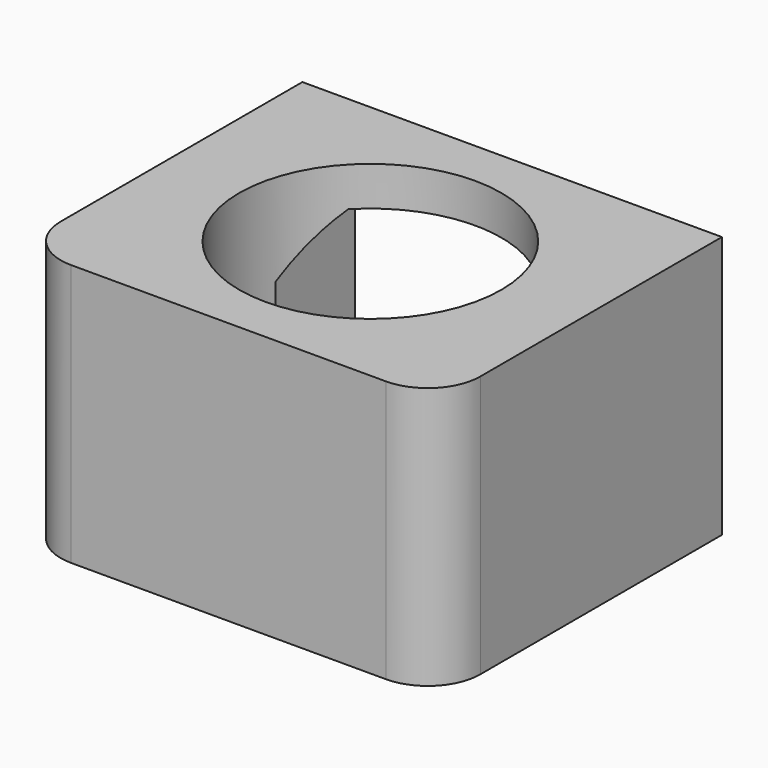
from build123d import *

# Parameters (mm, degrees)
F0_W     = 80
F0_H     = 50
F1_DEPTH = 33.8
F2_R     = 25
F3_DEPTH = 104.1
F4_R     = 10
F5_W     = 60
F5_H     = 42.5
F5_H_2   = 7.5
F6_DEPTH = 26.5
F7_SIZE  = 10


with BuildPart() as f1:
    # F0 (on Front) → F1 (new body, symmetric)
    with BuildSketch(Plane.XZ):
        Rectangle(F0_W, F0_H)
    extrude(amount=F1_DEPTH, both=True)

    # F2 (on face) → F3 (cut)
    with BuildSketch(Plane.XY.offset(25)):
        Circle(F2_R)
    extrude(amount=-F3_DEPTH, mode=Mode.SUBTRACT)

    # F4
    f4_edges = [f1.edges().sort_by_distance(p)[0] for p in [
        (40, -33.8, 0),
        (-40, -33.8, 0),
    ]]
    fillet(f4_edges, radius=F4_R)

    # F5 (on face) → F6 (cut)
    with BuildSketch(Plane(origin=(0, 33.8, 0), x_dir=(-1, 0, 0), z_dir=(0, 1, 0))):
        with Locations((0, -3.75)):
            Rectangle(F5_W, F5_H)
        with Locations((0, -28.75)):
            Rectangle(F5_W, F5_H_2)
    extrude(amount=-F6_DEPTH, mode=Mode.SUBTRACT)

    # F7
    f7_edges = [f1.edges().sort_by_distance(p)[0] for p in [
        (26.955229, 7.3, 17.5),
        (-26.955229, 7.3, 17.5),
    ]]
    chamfer(f7_edges, length=F7_SIZE)


solid = f1.part
